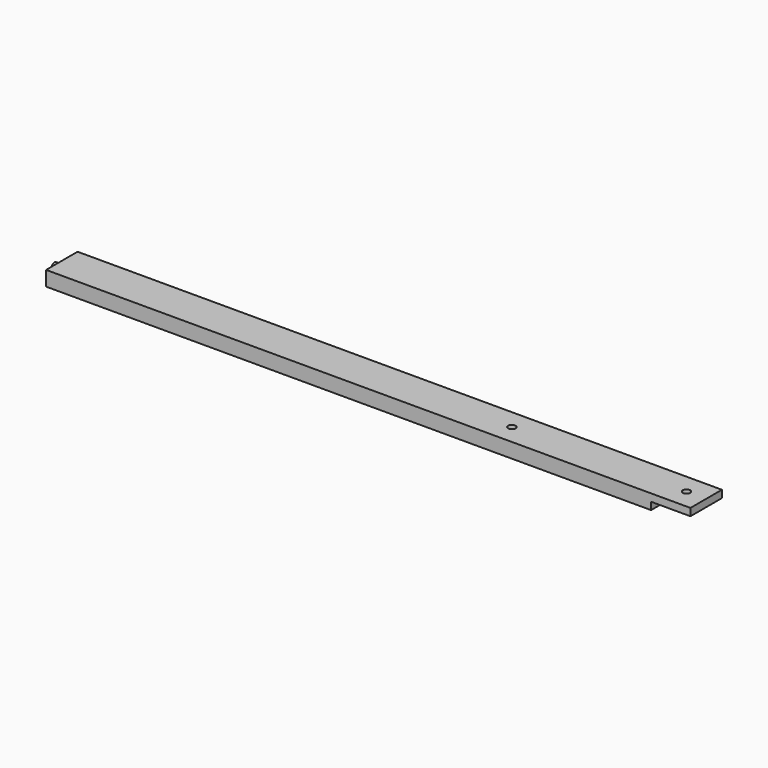
from build123d import *

# Parameters (mm, degrees)
F1_DEPTH = 50.8
F3_R     = 4.7625
F4_DEPTH = 12.7
F5_R     = 4.7625
F6_DEPTH = 9.525


with BuildPart() as f1:
    # F0 (on Front) → F1 (new body)
    with BuildSketch(Plane.XZ):
        Polygon((831.85, 9.525), (831.85, 19.05), (0, 19.05), (0, 0), (781.05, 0), (781.05, 9.525), align=None)
    extrude(amount=F1_DEPTH)

    # F3 (on offset) → F4 (cut, symmetric)
    with BuildSketch(Plane.XY.offset(9.525)):
        with Locations((806.45, -25.4)):
            Circle(F3_R)
        with Locations((581.025, -25.4)):
            Circle(F3_R)
    extrude(amount=F4_DEPTH, both=True, mode=Mode.SUBTRACT)

    # F5 (on Right) → F6 (join)
    with BuildSketch(Plane.YZ):
        with Locations((-25.4, 9.525)):
            Circle(F5_R)
    extrude(amount=-F6_DEPTH)


solid = f1.part
